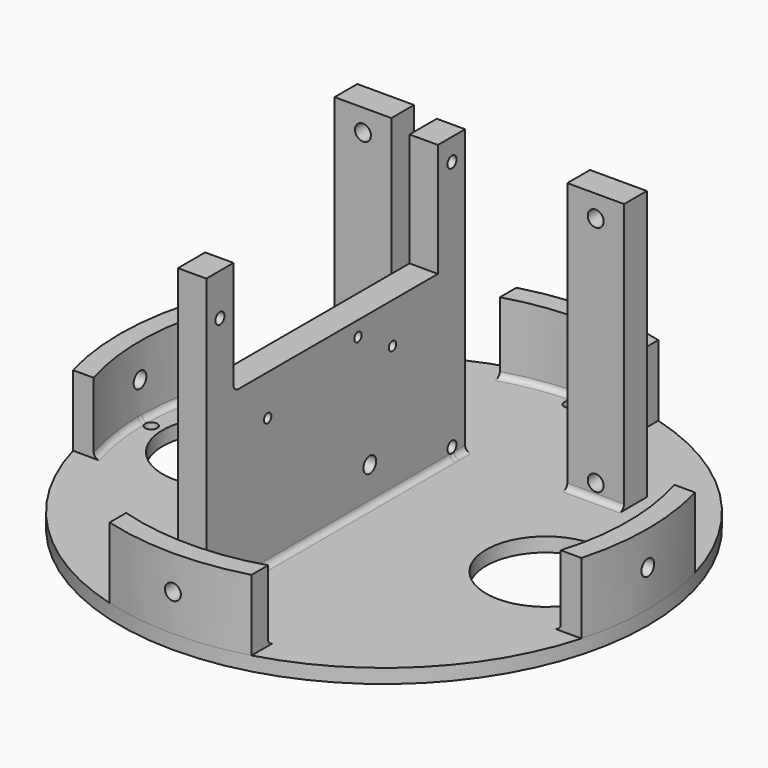
from build123d import *

# Parameters (mm, degrees)
CYLINDER135_R     = 2.8
CYLINDER135_DEPTH = 300
CYLINDER136_R     = 2.8
CYLINDER136_DEPTH = 300
SKETCH043_R       = 2.125
EXTRUDE025_DEPTH  = 20
EXTRUDE021_DEPTH  = 30
SKETCH034_W       = 20
SKETCH034_H       = 95
SKETCH034_R       = 2.8
EXTRUDE016_DEPTH  = 10
SKETCH035_R       = 2
SKETCH035_R_2     = 1.625
EXTRUDE017_DEPTH  = 10
SKETCH033_R       = 93
SKETCH033_R_2     = 21
SKETCH033_R_3     = 2
SKETCH033_R_4     = 1.625
EXTRUDE015_DEPTH  = 5
FILLET013_R       = 2


with BuildPart() as cylinder135:
    # Cylinder135 → Cylinder135 (new body)
    with BuildSketch(Plane(origin=(0, 0, 90), x_dir=(1, 0, 0), z_dir=(0, -1, 0))):
        Circle(CYLINDER135_R)
    extrude(amount=CYLINDER135_DEPTH)


with BuildPart() as m4heatsetcuts002:
    # Cylinder136 → Cylinder136 (new body)
    with BuildSketch(Plane(origin=(-150, -150, 90), x_dir=(0, 1, 0), z_dir=(1, 0, 0))):
        Circle(CYLINDER136_R)
    extrude(amount=CYLINDER136_DEPTH)

    # Fusion086: union Cylinder135
    add(cylinder135.part)


with BuildPart() as m4heatsetcuts002_1:
    # Fusion086 placement: moved
    add(m4heatsetcuts002.part.moved(Location((0, 0, -257))))


with BuildPart() as m4vercuts:
    # Sketch043 → Extrude025 (new body)
    with BuildSketch(Plane.XY):
        with Locations((0, -68)):
            Circle(SKETCH043_R)
        with Locations((82, -150)):
            Circle(SKETCH043_R)
        with Locations((0, -232)):
            Circle(SKETCH043_R)
        with Locations((-82, -150)):
            Circle(SKETCH043_R)
    extrude(amount=EXTRUDE025_DEPTH)


with BuildPart() as m4vercuts_1:
    # Extrude025 placement: moved
    add(m4vercuts.part.moved(Location((0, 0, -194.5))))


with BuildPart() as obj1:
    # Sketch039 → Extrude021 (new body)
    with BuildSketch(Plane.XY):
        with BuildLine():
            ThreePointArc((-89.576783, -125), (-93, -150), (-89.576783, -175))
            Line((-89.576783, -175), (-82.286086, -175))
            ThreePointArc((-82.286086, -125), (-86, -150), (-82.286086, -175))
            Line((-89.576783, -125), (-82.286086, -125))
        make_face()
        with BuildLine():
            ThreePointArc((25, -60.423217), (0, -57), (-25, -60.423217))
            Line((-25, -60.423217), (-25, -67.713914))
            ThreePointArc((25, -67.713914), (0, -64), (-25, -67.713914))
            Line((25, -60.423217), (25, -67.713914))
        make_face()
        with BuildLine():
            ThreePointArc((89.576783, -175), (93, -150), (89.576783, -125))
            Line((89.576783, -125), (82.286086, -125))
            ThreePointArc((82.286086, -175), (86, -150), (82.286086, -125))
            Line((89.576783, -175), (82.286086, -175))
        make_face()
        with BuildLine():
            ThreePointArc((-25, -239.576783), (0, -243), (25, -239.576783))
            Line((25, -239.576783), (25, -232.286086))
            ThreePointArc((-25, -232.286086), (0, -236), (25, -232.286086))
            Line((-25, -239.576783), (-25, -232.286086))
        make_face()
    extrude(amount=EXTRUDE021_DEPTH)


with BuildPart() as obj1_1:
    # Extrude021 placement: moved
    add(obj1.part.moved(Location((0, 0, -185))))


with BuildPart() as fanholder:
    # Sketch034 → Extrude016 (new body)
    with BuildSketch(Plane.XZ):
        with Locations((-41, -132.5)):
            Rectangle(SKETCH034_W, SKETCH034_H)
        with Locations((-41, -92.75)):
            Circle(SKETCH034_R, mode=Mode.SUBTRACT)
        with Locations((-41, -174.75)):
            Circle(SKETCH034_R, mode=Mode.SUBTRACT)
        with Locations((41, -132.5)):
            Rectangle(SKETCH034_W, SKETCH034_H)
        with Locations((41, -92.75)):
            Circle(SKETCH034_R, mode=Mode.SUBTRACT)
        with Locations((41, -174.75)):
            Circle(SKETCH034_R, mode=Mode.SUBTRACT)
    extrude(amount=EXTRUDE016_DEPTH)


with BuildPart() as fanholder_1:
    # Extrude016 placement: moved
    add(fanholder.part.moved(Location((0, -98, 0))))


with BuildPart() as obj2:
    # Sketch035 → Extrude017 (new body)
    with BuildSketch(Plane.YZ):
        Polygon((-222, -80), (-210, -80), (-210, -120), (-120, -120), (-120, -80), (-108, -80), (-108, -180), (-222, -180), align=None)
        with Locations((-216, -94.75)):
            Circle(SKETCH035_R, mode=Mode.SUBTRACT)
        with Locations((-113.8, -87.8)):
            Circle(SKETCH035_R, mode=Mode.SUBTRACT)
        with Locations((-113.8, -176.2)):
            Circle(SKETCH035_R, mode=Mode.SUBTRACT)
        with Locations((-216, -176.2)):
            Circle(SKETCH035_R, mode=Mode.SUBTRACT)
        with Locations((-155.2, -125.25)):
            Circle(SKETCH035_R_2, mode=Mode.SUBTRACT)
        with Locations((-140, -134.25)):
            Circle(SKETCH035_R_2, mode=Mode.SUBTRACT)
        with Locations((-195, -134.25)):
            Circle(SKETCH035_R_2, mode=Mode.SUBTRACT)
    extrude(amount=EXTRUDE017_DEPTH)


with BuildPart() as obj2_1:
    # Extrude017 placement: moved
    add(obj2.part.moved(Location((-15, 0, 0))))


with BuildPart() as level4s002:
    # Sketch033 → Extrude015 (new body)
    with BuildSketch(Plane.XY):
        with Locations((0, -150)):
            Circle(SKETCH033_R)
        with Locations((-57, -150)):
            Circle(SKETCH033_R_2, mode=Mode.SUBTRACT)
        with Locations((-41.75, -126)):
            Circle(SKETCH033_R_3, mode=Mode.SUBTRACT)
        with Locations((-30.75, -129.1)):
            Circle(SKETCH033_R_4, mode=Mode.SUBTRACT)
        with Locations((-30.75, -203.5)):
            Circle(SKETCH033_R_4, mode=Mode.SUBTRACT)
        with Locations((57, -150)):
            Circle(SKETCH033_R_2, mode=Mode.SUBTRACT)
    extrude(amount=EXTRUDE015_DEPTH)


with BuildPart() as level4s002_1:
    # Extrude015 placement: moved
    add(level4s002.part.moved(Location((0, 0, -185))))

    # Fusion077: union fanHolder, obj2
    add(fanholder_1.part)
    add(obj2_1.part)

    # Fusion081: union obj1
    add(obj1_1.part)

    # Cut037: cut m4VerCuts
    add(m4vercuts_1.part, mode=Mode.SUBTRACT)

    # Cut039: cut m4HeatSetCuts002
    add(m4heatsetcuts002_1.part, mode=Mode.SUBTRACT)

    # Fillet013
    fillet013_edges = [level4s002_1.edges().sort_by_distance(p)[0] for p in [
        (86, -150, -180),
        (0, -64, -180),
        (0, -236, -180),
        (-86, -150, -180),
        (-15, -165, -180),
        (-5, -165, -180),
        (-41, -98, -180),
        (-41, -108, -180),
        (41, -108, -180),
        (-10, -210, -120),
    ]]
    fillet(fillet013_edges, radius=FILLET013_R)


solid = level4s002_1.part
